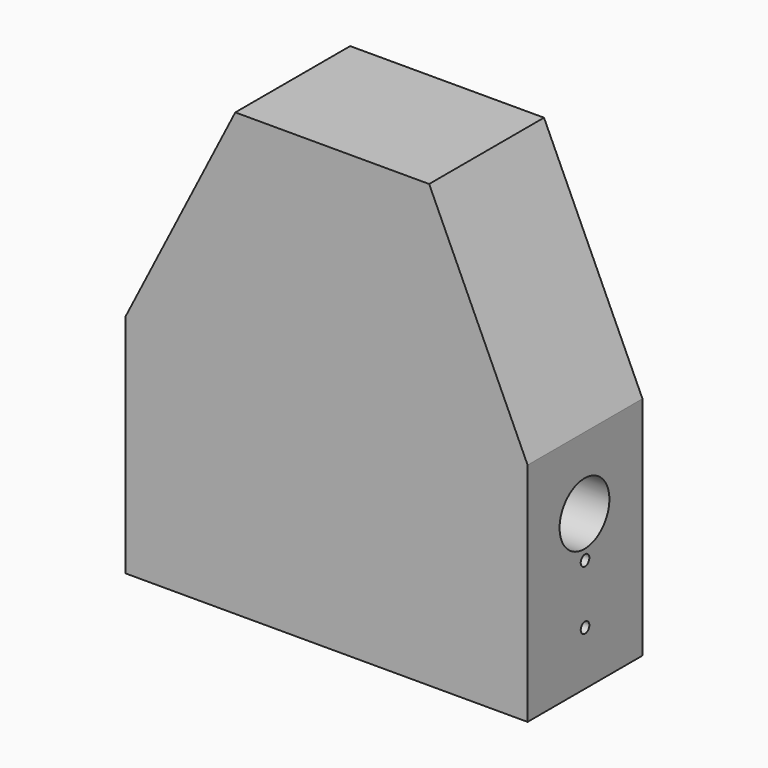
from build123d import *

# Parameters (mm, degrees)
F1_DEPTH = 40
F2_R     = 1.5
F3_DEPTH = 25
F4_R     = 8.674153
F5_DEPTH = 25


with BuildPart() as f1:
    # F0 (on Front) → F1 (new body)
    with BuildSketch(Plane.XZ):
        Polygon((76.767643, 2.10375), (27.992256, 2.10375), (-2.5816, -57.89625), (-2.5816, -120.89625), (109.4184, -120.89625), (109.4184, -59.39625), (109.4184, -57.89625), (81.992256, 2.10375), align=None)
    extrude(amount=F1_DEPTH)

    # F2 (on face) → F3 (cut)
    with BuildSketch(Plane.YZ.offset(109.4184)):
        with Locations((-20, -105.89625)):
            Circle(F2_R)
        with Locations((-20, -89.39625)):
            Circle(F2_R)
    extrude(amount=-F3_DEPTH, mode=Mode.SUBTRACT)

    # F4 (on face) → F5 (cut)
    with BuildSketch(Plane.YZ.offset(109.4184)):
        with Locations((-20.189999, -77.86797)):
            Circle(F4_R)
    extrude(amount=-F5_DEPTH, mode=Mode.SUBTRACT)


solid = f1.part
